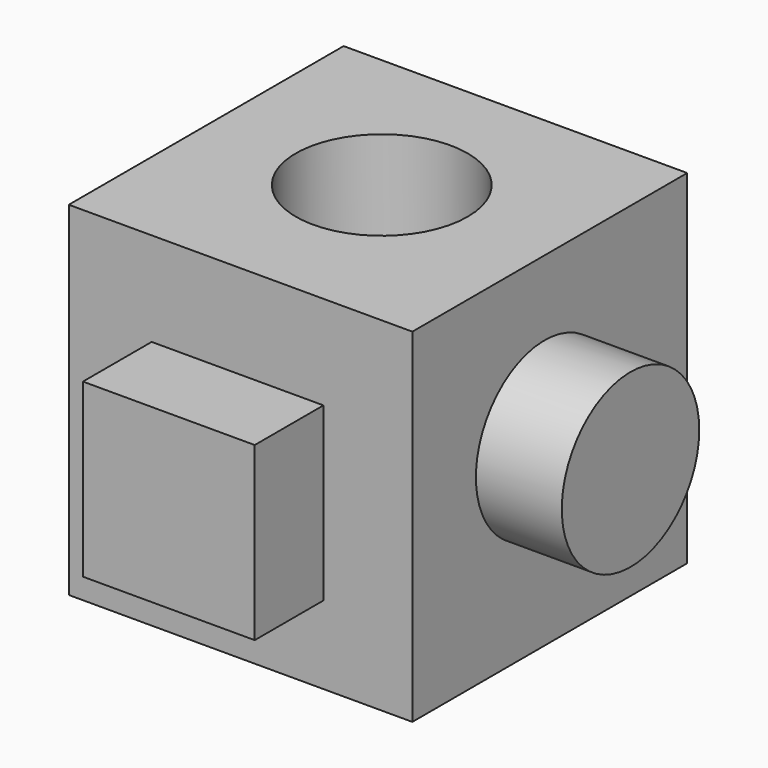
from build123d import *

# Parameters (mm, degrees)
F0_W     = 50.8
F0_H     = 50.8
F1_DEPTH = 50.8
F2_W     = 25.4
F2_H     = 25.4
F3_DEPTH = 12.7
F4_R     = 12.7
F5_DEPTH = 12.7
F6_R     = 12.7
F7_DEPTH = 50.8


with BuildPart() as f1:
    # F0 (on Front) → F1 (new body)
    with BuildSketch(Plane.XZ):
        with Locations((-25.4, 25.4)):
            Rectangle(F0_W, F0_H)
    extrude(amount=F1_DEPTH)

    # F2 (on face) → F3 (join)
    with BuildSketch(Plane.XZ.offset(50.8)):
        with Locations((-25.846231, 24.229835)):
            Rectangle(F2_W, F2_H)
    extrude(amount=F3_DEPTH)

    # F4 (on face) → F5 (join)
    with BuildSketch(Plane.YZ):
        with Locations((-26.355017, 27.050947)):
            Circle(F4_R)
    extrude(amount=F5_DEPTH)

    # F6 (on face) → F7 (cut)
    with BuildSketch(Plane.XY.offset(50.8)):
        with Locations((-25.661298, -24.378811)):
            Circle(F6_R)
    extrude(amount=-F7_DEPTH, mode=Mode.SUBTRACT)


solid = f1.part
